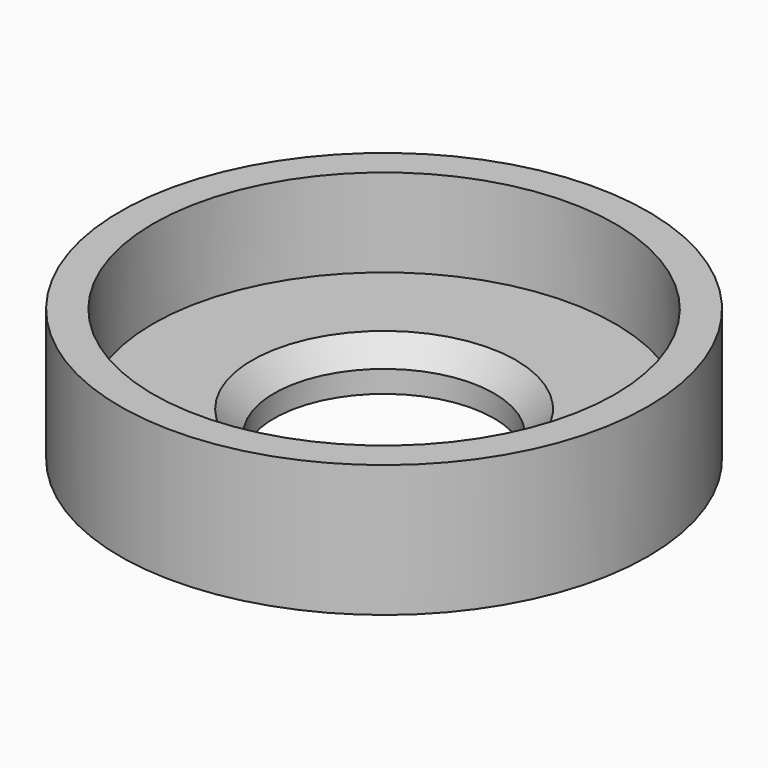
from build123d import *

# Parameters (mm, degrees)
F2_SIZE = 0.5


with BuildPart() as f1:
    # F0 (on Front) → F1 (revolve)
    with BuildSketch(Plane.XZ):
        Polygon((2.5, 0), (6, 0), (6, 3), (5.25, 3), (5.25, 1), (2.5, 1), align=None)
    revolve(axis=Axis((0, 0, 1.5), (0, 0, 1)))

    # F2
    f2_edges = [f1.edges().sort_by_distance(p)[0] for p in [
        (-2.5, 0, 1),
    ]]
    chamfer(f2_edges, length=F2_SIZE)


solid = f1.part
